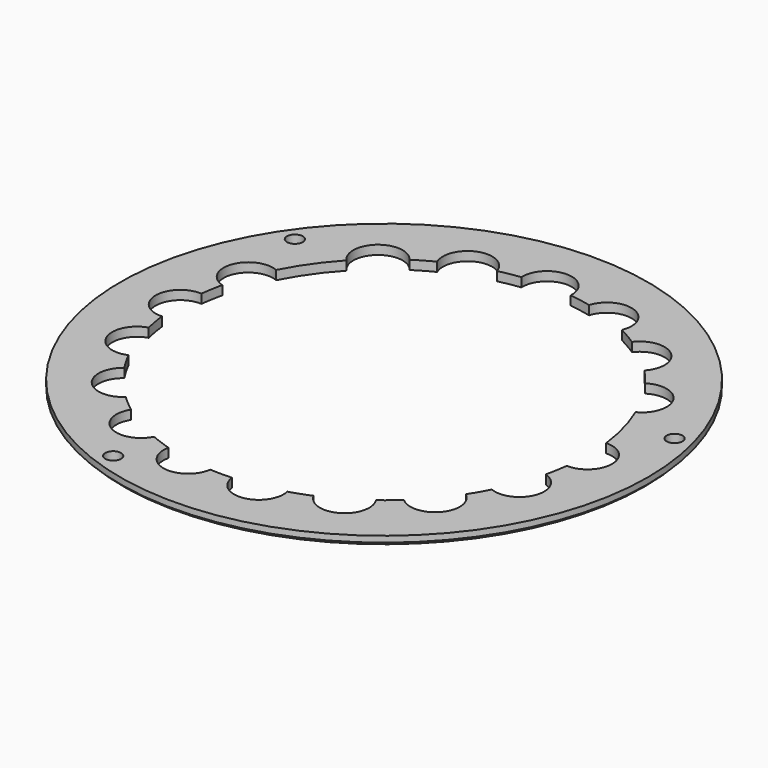
from build123d import *

# Parameters (mm, degrees)
F0_R     = 17.4791666667
F0_R_2   = 0.525
F1_DEPTH = 0.6
F2_SIZE  = 0.2
F3_SCALE = 3


with BuildPart() as f1:
    # F0 (on Top) → F1 (new body)
    with BuildSketch(Plane.XY):
        Circle(F0_R)
        with Locations((-5.6091303505, -15.4109589809)):
            Circle(F0_R_2, mode=Mode.SUBTRACT)
        with BuildLine():
            ThreePointArc((12.4211490883, 5.28819963), (13.0398483265, 3.494618094), (13.400990099, 1.6320123671))
            ThreePointArc((13.400990099, 1.6320123671), (14.5981493335, 1.1779324057), (15.1, 0))
            ThreePointArc((15.1, 0), (14.5981493335, -1.1779324057), (13.400990099, -1.6320123671))
            ThreePointArc((13.400990099, -1.6320123671), (13.2945098091, -2.3464886393), (13.1499649563, -3.0542464943))
            ThreePointArc((13.1499649563, -3.0542464943), (13.9724997299, -3.6467176264), (14.2870667184, -4.6103737402))
            ThreePointArc((14.2870667184, -4.6103737402), (13.5629249977, -5.9672629728), (12.0325993029, -6.1209928947))
            ThreePointArc((12.0325993029, -6.1209928947), (11.6880692654, -6.7556670173), (11.3100935731, -7.3710096574))
            ThreePointArc((11.3100935731, -7.3710096574), (11.7786571464, -7.9438467562), (11.9463186252, -8.6646683655))
            ThreePointArc((11.9463186252, -8.6646683655), (10.9714810033, -10.1593794332), (9.210611063, -9.8698857058))
            ThreePointArc((9.210611063, -9.8698857058), (8.6699484839, -10.3480429689), (8.1045033915, -10.7966209889))
            ThreePointArc((8.1045033915, -10.7966209889), (8.2948880144, -11.2170122777), (8.3600844859, -11.6738761091))
            ThreePointArc((8.3600844859, -11.6738761091), (7.1138213291, -13.2606824792), (5.2768749477, -12.4259643806))
            ThreePointArc((5.2768749477, -12.4259643806), (4.6057092155, -12.6900529007), (3.9213971545, -12.9179195057))
            ThreePointArc((3.9213971545, -12.9179195057), (3.9510070235, -13.0953907943), (3.9609170652, -13.2750421058))
            ThreePointArc((3.9609170652, -13.2750421058), (2.4309982831, -14.9050983037), (0.7073457896, -13.4814562245))
            ThreePointArc((0.7073457896, -13.4814562245), (-0.0130943041, -13.4999936496), (-0.7334970815, -13.4800586806))
            ThreePointArc((-0.7334970815, -13.4800586806), (-2.6390844274, -14.8832879588), (-3.9460263226, -12.9104173543))
            ThreePointArc((-3.9460263226, -12.9104173543), (-4.6288343322, -12.6816360429), (-5.2984716212, -12.4167708555))
            ThreePointArc((-5.2984716212, -12.4167708555), (-7.5709419973, -13.0876933984), (-8.1222459609, -10.783279675))
            ThreePointArc((-8.1222459609, -10.783279675), (-8.6853165754, -10.3351476034), (-9.2237075057, -9.8576477848))
            ThreePointArc((-9.2237075057, -9.8576477848), (-11.5911782598, -9.713769738), (-11.3188073747, -7.3576218723))
            ThreePointArc((-11.3188073747, -7.3576218723), (-11.6946164061, -6.744327032), (-12.0372272938, -6.1118867037))
            ThreePointArc((-12.0372272938, -6.1118867037), (-14.2150797243, -5.168494422), (-13.1517324298, -3.0466266746))
            ThreePointArc((-13.1517324298, -3.0466266746), (-13.2952994905, -2.3420101316), (-13.4011439404, -1.6307486284))
            ThreePointArc((-13.4011439404, -1.6307486284), (-15.1263287229, 0), (-13.4011439404, 1.6307486284))
            ThreePointArc((-13.4011439404, 1.6307486284), (-13.2952994905, 2.3420101316), (-13.1517324298, 3.0466266746))
            ThreePointArc((-13.1517324298, 3.0466266746), (-14.2150797243, 5.168494422), (-12.0372272938, 6.1118867037))
            ThreePointArc((-12.0372272938, 6.1118867037), (-11.0598636595, 7.7414091633), (-9.8633913446, 9.217565361))
            ThreePointArc((-9.8633913446, 9.217565361), (-9.7217308873, 11.5859077112), (-7.3647698988, 11.3141576946))
            ThreePointArc((-7.3647698988, 11.3141576946), (-6.75, 11.6913429511), (-6.1159630365, 12.0351566727))
            ThreePointArc((-6.1159630365, 12.0351566727), (-5.1728249601, 14.2122197728), (-3.0509500914, 13.1507301523))
            ThreePointArc((-3.0509500914, 13.1507301523), (-2.3442503985, 13.2949046657), (-1.6308593243, 13.4011304696))
            ThreePointArc((-1.6308593243, 13.4011304696), (-0.0449493128, 15.1237097603), (1.6333333333, 13.4909950464))
            ThreePointArc((1.6333333333, 13.4909950464), (1.6327147139, 13.4460457336), (1.6308593243, 13.4011304696))
            ThreePointArc((1.6308593243, 13.4011304696), (2.3442503985, 13.2949046657), (3.0509500914, 13.1507301523))
            ThreePointArc((3.0509500914, 13.1507301523), (4.8534435624, 14.2931039672), (6.2475253927, 12.6773884922))
            ThreePointArc((6.2475253927, 12.6773884922), (6.2142968019, 12.3496041257), (6.1159630365, 12.0351566727))
            ThreePointArc((6.1159630365, 12.0351566727), (6.75, 11.6913429511), (7.3647698988, 11.3141576946))
            ThreePointArc((7.3647698988, 11.3141576946), (9.1880272411, 11.8843253264), (10.3051777915, 10.3347017875))
            ThreePointArc((10.3051777915, 10.3347017875), (10.1907208563, 9.7340419295), (9.8633913446, 9.217565361))
            ThreePointArc((9.8633913446, 9.217565361), (10.3415999821, 8.6776327308), (10.790289764, 8.1129308397))
            ThreePointArc((10.790289764, 8.1129308397), (12.4609745427, 8.181944599), (13.3168777659, 6.7454975232))
            ThreePointArc((13.3168777659, 6.7454975232), (13.0750421955, 5.8902129195), (12.4211490883, 5.28819963))
        make_face(mode=Mode.SUBTRACT)
        with Locations((-13.4340935263, 9.4066535562)):
            Circle(F0_R_2, mode=Mode.SUBTRACT)
        with Locations((15.8411835511, 4.2446323397)):
            Circle(F0_R_2, mode=Mode.SUBTRACT)
    extrude(amount=F1_DEPTH)

    # F2
    f2_edges = [f1.edges().sort_by_distance(p)[0] for p in [
        (-17.479167, 0, 0),
    ]]
    chamfer(f2_edges, length=F2_SIZE)


with BuildPart() as f1_1:
    # F3: moved
    add(f1.part.scale(F3_SCALE))


solid = f1_1.part
